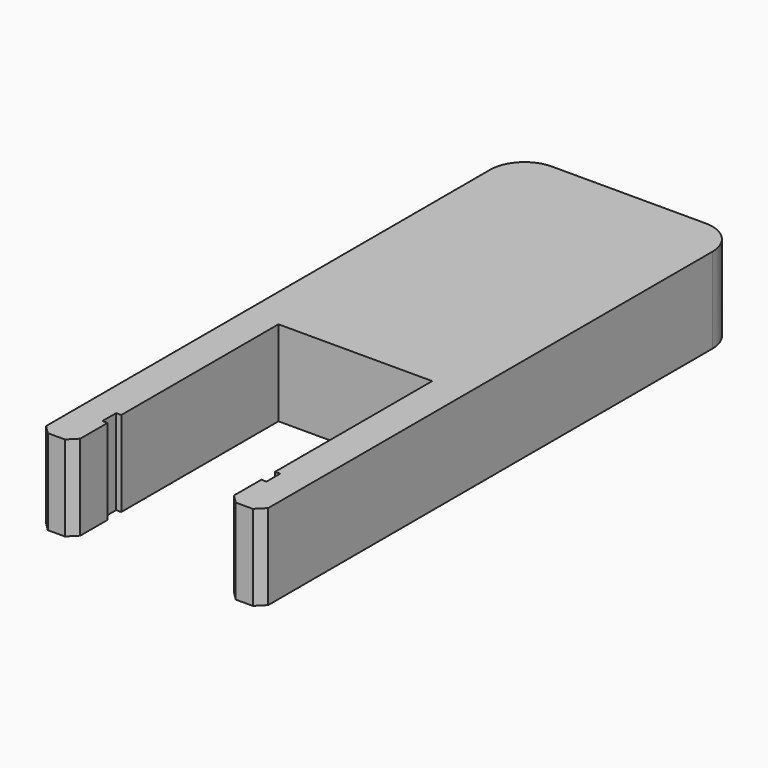
from build123d import *

# Parameters (mm, degrees)
F0_W     = 2
F0_H     = 15
F1_DEPTH = 5
F2_SIZE  = 0.5
F3_W     = 0.3
F3_H     = 1
F4_DEPTH = 25
F5_R     = 2


with BuildPart() as f1:
    # F0 (on Top) → F1 (new body)
    with BuildSketch(Plane.XY):
        Polygon((6.203948, 24.292763), (-6.796052, 24.292763), (-6.796052, 4.292763), (-4.796052, 4.292763), (4.203948, 4.292763), (6.203948, 4.292763), align=None)
        with Locations((-5.796052, -3.207237)):
            Rectangle(F0_W, F0_H)
        with Locations((5.203948, -3.207237)):
            Rectangle(F0_W, F0_H)
    extrude(amount=F1_DEPTH)

    # F2
    f2_edges = [f1.edges().sort_by_distance(p)[0] for p in [
        (-6.796052, -10.707237, 2.5),
        (4.203948, -10.707237, 2.5),
        (6.203948, -10.707237, 2.5),
        (-4.796052, -10.707237, 2.5),
    ]]
    chamfer(f2_edges, length=F2_SIZE)

    # F3 (on face) → F4 (cut)
    with BuildSketch(Plane.XY.offset(5)):
        with Locations((-4.946052, -7.707237)):
            Rectangle(F3_W, F3_H)
        with Locations((4.353948, -7.707237)):
            Rectangle(F3_W, F3_H)
    extrude(amount=-F4_DEPTH, mode=Mode.SUBTRACT)

    # F5
    f5_edges = [f1.edges().sort_by_distance(p)[0] for p in [
        (6.203948, 24.292763, 2.5),
        (-6.796052, 24.292763, 2.5),
    ]]
    fillet(f5_edges, radius=F5_R)


solid = f1.part
